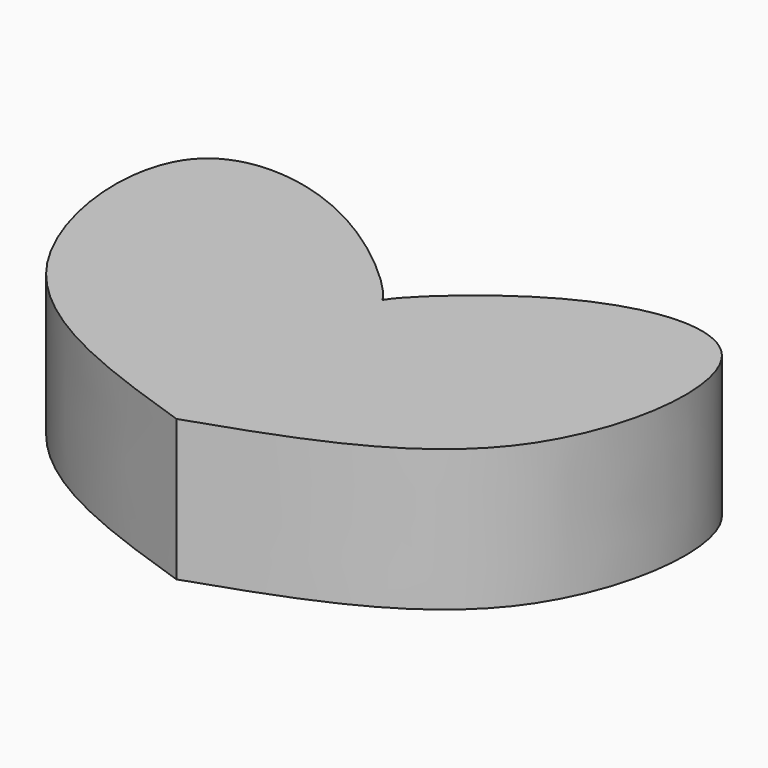
from build123d import *

# Parameters (mm, degrees)
F1_DEPTH = 13.208


with BuildPart() as f1:
    # F0 (on Top) → F1 (new body)
    with BuildSketch(Plane.XY):
        with BuildLine():
            add(Edge.make_bspline(
                [(0, -28.1808618456), (-8.9055266395, -25.1703100568), (-25.5153010178, -19.555304006), (-28.9994287139, 8.3991992658), (-10.600813516, 6.9300451764), (-0.5083900978, -2.933029905), (0, -4.1384482756)],
                knots=[0, 0, 0, 0, 0.2900534345, 0.5409811569, 0.7513444761, 0.9644439177, 0.9644439177, 0.9644439177, 0.9644439177], degree=3))
            add(Edge.make_bspline(
                [(0, -28.1808618456), (8.9055266395, -25.1703100568), (25.5153010178, -19.555304006), (28.9994287139, 8.3991992658), (10.600813516, 6.9300451764), (0.5083900978, -2.933029905), (0, -4.1384482756)],
                knots=[0, 0, 0, 0, 0.2900534345, 0.5409811569, 0.7513444761, 0.9644439177, 0.9644439177, 0.9644439177, 0.9644439177], degree=3))
        make_face()
        with BuildLine():
            add(Edge.make_bspline(
                [(0, -4.1384482756), (-0.0848259386, -4.3395748223), (-0.0424129693, -4.4360805699), (0, -4.5325863175)],
                knots=[0.9644439177, 0.9644439177, 0.9644439177, 0.9644439177, 1, 1, 1, 1], degree=3))
            add(Edge.make_bspline(
                [(0, -4.1384482756), (0.0848259386, -4.3395748223), (0.0424129693, -4.4360805699), (0, -4.5325863175)],
                knots=[0.9644439177, 0.9644439177, 0.9644439177, 0.9644439177, 1, 1, 1, 1], degree=3))
        make_face(mode=Mode.SUBTRACT)
        with BuildLine():
            add(Edge.make_bspline(
                [(0, -4.1384482756), (0.0848259386, -4.3395748223), (0.0424129693, -4.4360805699), (0, -4.5325863175)],
                knots=[0.9644439177, 0.9644439177, 0.9644439177, 0.9644439177, 1, 1, 1, 1], degree=3))
            add(Edge.make_bspline(
                [(0, -4.1384482756), (-0.0848259386, -4.3395748223), (-0.0424129693, -4.4360805699), (0, -4.5325863175)],
                knots=[0.9644439177, 0.9644439177, 0.9644439177, 0.9644439177, 1, 1, 1, 1], degree=3))
        make_face()
    extrude(amount=F1_DEPTH)


solid = f1.part
